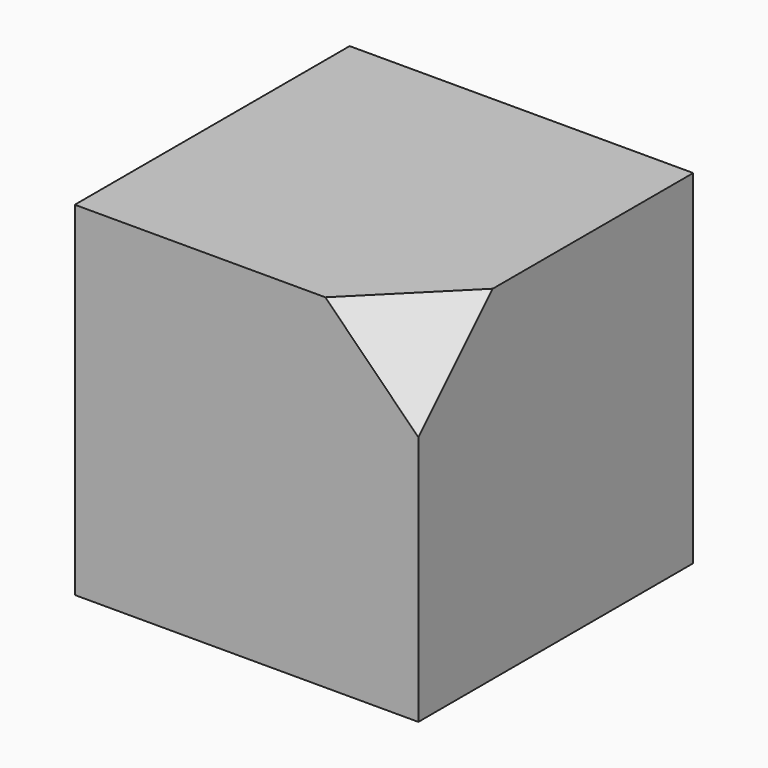
from build123d import *

# Parameters (mm, degrees)
F0_W     = 482.6
F0_H     = 482.6
F1_DEPTH = 241.3
F4_START = 203.2
F4_DEPTH = 76.2


with BuildPart() as f1:
    # F0 (on Top) → F1 (new body, symmetric)
    with BuildSketch(Plane.XY):
        Rectangle(F0_W, F0_H)
    extrude(amount=F1_DEPTH, both=True)

    # F3 (on 3pt) → F4 (cut)
    with BuildSketch(Plane(origin=(80.4333333333, -80.4333333333, 80.4333333333), x_dir=(0.4082482905, 0.8164965809, 0.4082482905), z_dir=(0.5773502692, -0.5773502692, 0.5773502692)).offset(F4_START)):
        Polygon((394.0412499557, 0), (-197.0206249779, 341.2497326006), (-197.0206249779, -341.2497326006), align=None)
    extrude(amount=F4_DEPTH, mode=Mode.SUBTRACT)


solid = f1.part
